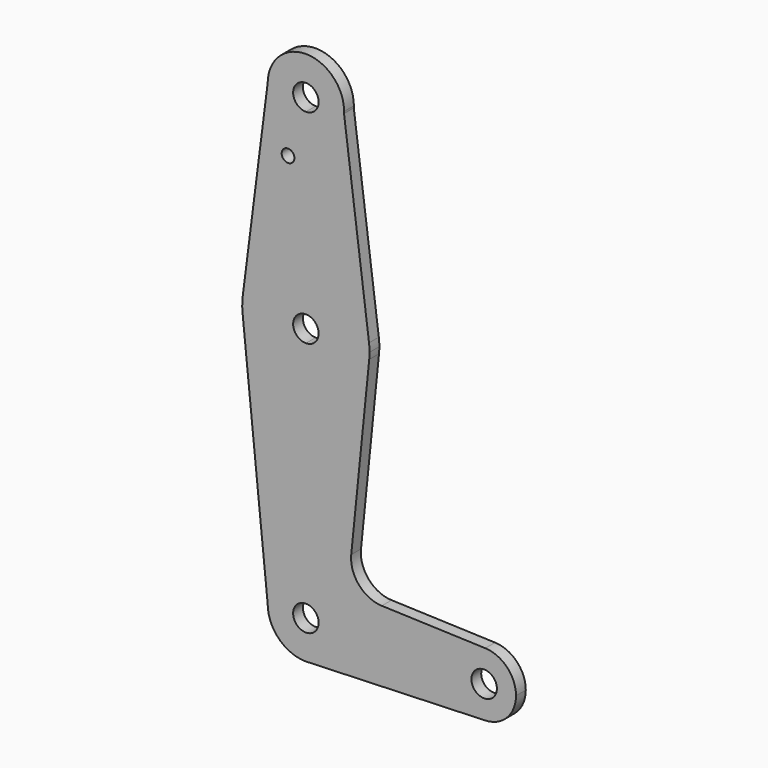
from build123d import *

# Parameters (mm, degrees)
F0_R     = 1.5875
F1_DEPTH = 3.048


with BuildPart() as f1:
    # F0 (on Front) → F1 (new body)
    with BuildSketch(Plane.XZ):
        with BuildLine():
            ThreePointArc((0, -9.525), (0.3388863295, -9.5189695375), (0.6773435479, -9.500885786))
            Line((0.6773435479, -9.500885786), (0, -9.525))
        make_face()
        with BuildLine():
            Line((0, 100.0252), (0, 79.375))
            ThreePointArc((0, 79.375), (10.4822638638, 75.4221545574), (15.7443993569, 65.5321205404))
            Line((15.7443993569, 65.5321205404), (9.512619218, 113.8145099251))
            ThreePointArc((9.512619218, 113.8145099251), (6.5613006347, 107.3952944319), (0, 104.775))
            Line((0, 104.775), (0, 100.0252))
        make_face()
        with BuildLine():
            Line((36.5125, 0), (9.525, 0))
            ThreePointArc((9.525, 0), (6.9705567315, -6.4912990883), (0.6773435479, -9.500885786))
            Line((0.6773435479, -9.500885786), (44.7324052746, -7.9324746146))
            ThreePointArc((44.7324052746, -7.9324746146), (38.9380895153, -5.7116327839), (36.5125, 0))
        make_face()
        with BuildLine():
            ThreePointArc((9.525, 114.3), (0.0285512837, 123.8249572085), (-9.5248288345, 114.3571023108))
            ThreePointArc((-9.5248288345, 114.3571023108), (-6.7553506389, 107.5850269736), (0, 104.775))
            ThreePointArc((0, 104.775), (6.5613006347, 107.3952944319), (9.512619218, 113.8145099251))
            ThreePointArc((9.512619218, 113.8145099251), (9.5219043014, 114.0571760429), (9.525, 114.3))
        make_face()
        with BuildLine():
            ThreePointArc((3.175, 114.3), (2.2450640303, 112.0549359697), (0, 111.125))
            ThreePointArc((0, 111.125), (-2.2450640303, 116.5450640303), (3.175, 114.3))
        make_face(mode=Mode.SUBTRACT)
        with BuildLine():
            ThreePointArc((44.7324052746, 7.9324746146), (38.9380895153, 5.7116327839), (36.5125, 0))
            ThreePointArc((36.5125, 0), (38.9380895153, -5.7116327839), (44.7324052746, -7.9324746146))
            ThreePointArc((44.7324052746, -7.9324746146), (50.1616327839, -5.5119104847), (52.3875, 0))
            ThreePointArc((52.3875, 0), (50.1616327839, 5.5119104847), (44.7324052746, 7.9324746146))
        make_face()
        with BuildLine():
            ThreePointArc((47.625, 0), (44.45, -3.175), (41.275, 0))
            ThreePointArc((41.275, 0), (44.45, 3.175), (47.625, 0))
        make_face(mode=Mode.SUBTRACT)
        with BuildLine():
            ThreePointArc((-9.525, 0), (-6.7351920908, 6.7351920908), (0, 9.525))
            Line((0, 9.525), (0, 47.625))
            ThreePointArc((0, 47.625), (-10.644756084, 51.722700101), (-15.7942028036, 61.9003804205))
            Line((-15.7942028036, 61.9003804205), (-9.525, 0))
        make_face()
        with BuildLine():
            Line((-9.5248288345, 114.3571023108), (-15.747744419, 65.5060335773))
            ThreePointArc((-15.747744419, 65.5060335773), (-10.4921361495, 75.4134673383), (0, 79.375))
            Line((0, 79.375), (0, 100.0252))
            Line((0, 100.0252), (0, 104.775))
            ThreePointArc((0, 104.775), (-6.7553506389, 107.5850269736), (-9.5248288345, 114.3571023108))
        make_face()
        with Locations((-4.447165411, 100.0252)):
            Circle(F0_R, mode=Mode.SUBTRACT)
        with BuildLine():
            Line((0, 60.325), (0, 47.625))
            ThreePointArc((0, 47.625), (10.644756084, 51.722700101), (15.7942028036, 61.9003804205))
            ThreePointArc((15.7942028036, 61.9003804205), (15.8547878338, 62.6991705884), (15.875, 63.5))
            ThreePointArc((15.875, 63.5), (15.8423161941, 64.5181564736), (15.7443993569, 65.5321205404))
            ThreePointArc((15.7443993569, 65.5321205404), (10.4822638638, 75.4221545574), (0, 79.375))
            Line((0, 79.375), (0, 66.675))
            ThreePointArc((0, 66.675), (2.2450640303, 65.7450640303), (3.175, 63.5))
            ThreePointArc((3.175, 63.5), (2.2450640303, 61.2549359697), (0, 60.325))
        make_face()
        with BuildLine():
            ThreePointArc((-15.7942028036, 61.9003804205), (-10.644756084, 51.722700101), (0, 47.625))
            Line((0, 47.625), (0, 60.325))
            ThreePointArc((0, 60.325), (-3.175, 63.5), (0, 66.675))
            Line((0, 66.675), (0, 79.375))
            ThreePointArc((0, 79.375), (-10.4921361495, 75.4134673383), (-15.747744419, 65.5060335773))
            ThreePointArc((-15.747744419, 65.5060335773), (-15.8736823806, 63.7045303884), (-15.7942028036, 61.9003804205))
        make_face()
        with BuildLine():
            Line((0, 47.625), (0, 9.525))
            ThreePointArc((0, 9.525), (6.7351920908, 6.7351920908), (9.525, 0))
            Line((9.525, 0), (36.5125, 0))
            ThreePointArc((36.5125, 0), (38.9380895153, 5.7116327839), (44.7324052746, 7.9324746146))
            Line((44.7324052746, 7.9324746146), (18.9341027877, 8.850924033))
            ThreePointArc((18.9341027877, 8.850924033), (13.2249738114, 11.5709798305), (11.3072231466, 17.5971800924))
            Line((11.3072231466, 17.5971800924), (15.7942028036, 61.9003804205))
            ThreePointArc((15.7942028036, 61.9003804205), (10.644756084, 51.722700101), (0, 47.625))
        make_face()
        with BuildLine():
            Line((0, 9.525), (0, 3.175))
            ThreePointArc((0, 3.175), (2.2450640303, 2.2450640303), (3.175, 0))
            Line((3.175, 0), (9.525, 0))
            ThreePointArc((9.525, 0), (6.7351920908, 6.7351920908), (0, 9.525))
        make_face()
        with BuildLine():
            ThreePointArc((3.175, 0), (-2.2450640303, -2.2450640303), (0, 3.175))
            Line((0, 3.175), (0, 9.525))
            ThreePointArc((0, 9.525), (-6.7351920908, 6.7351920908), (-9.525, 0))
            ThreePointArc((-9.525, 0), (-6.7351920908, -6.7351920908), (0, -9.525))
            Line((0, -9.525), (0.6773435479, -9.500885786))
            ThreePointArc((0.6773435479, -9.500885786), (6.9705567315, -6.4912990883), (9.525, 0))
            Line((9.525, 0), (3.175, 0))
        make_face()
    extrude(amount=F1_DEPTH)


solid = f1.part
